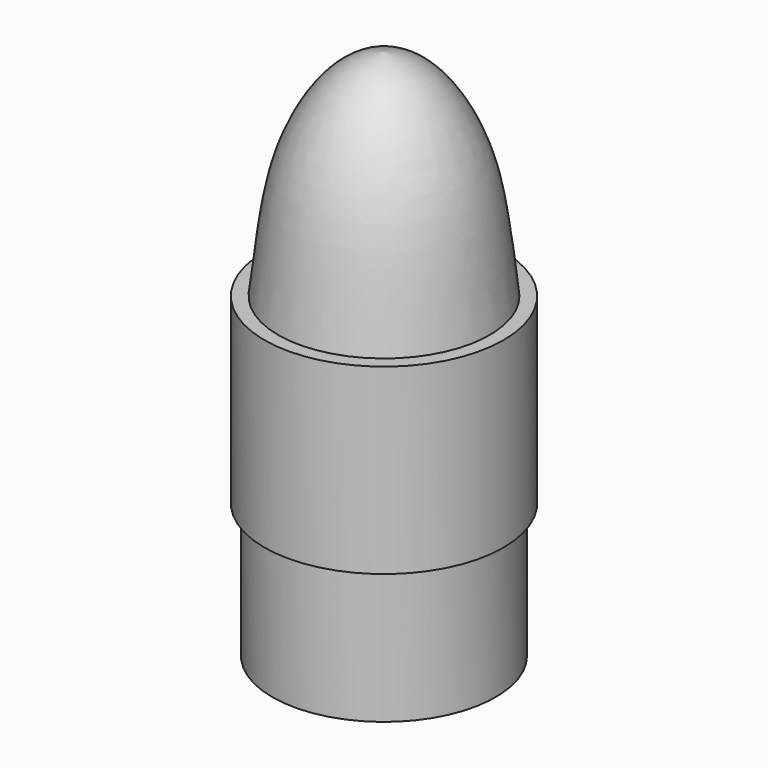
from build123d import *


with BuildPart() as f1:
    # F0 (on Front) → F1 (revolve)
    with BuildSketch(Plane.XZ):
        with BuildLine():
            Line((-2.6416, 0), (0, 0))
            Line((0, 0), (0, 12.573))
            add(Edge.make_bspline(
                [(0, 12.573), (-0.4830070247, 12.4962469563), (-1.2133713968, 12.0681409178), (-2.1636329713, 10.3908318494), (-2.3248971069, 9.0369821976), (-2.5019, 7.493)],
                knots=[0, 0, 0, 0, 0.2704784564, 0.5771940667, 1, 1, 1, 1], degree=3))
            Line((-2.5019, 7.493), (-2.82829, 7.493))
            Line((-2.82829, 7.493), (-2.82829, 3.175))
            Line((-2.82829, 3.175), (-2.6416, 3.175))
            Line((-2.6416, 3.175), (-2.6416, 0))
        make_face()
    revolve(axis=Axis((0, 0, 6.2865), (0, 0, 1)))


solid = f1.part
